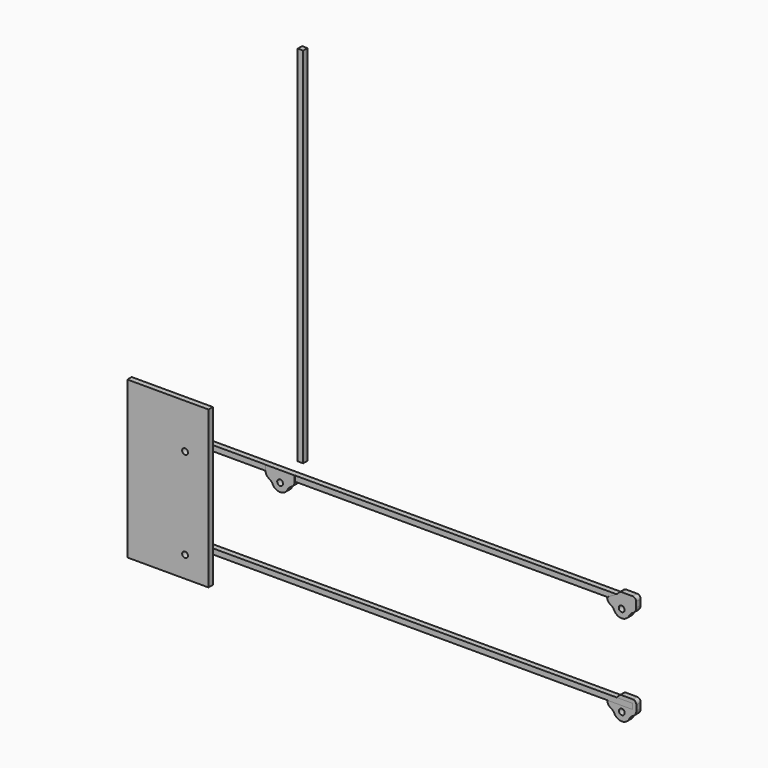
from build123d import *

# Parameters (mm, degrees)
F1_R      = 1.6
F2_DEPTH  = 3
F3_R      = 1.6
F4_DEPTH  = 3
F5_DEPTH  = 3
F6_DEPTH  = 250
F10_W     = 3
F10_H     = 3
F11_DEPTH = 200
F12_W     = 44.6838736534
F12_H     = 86.2456932664
F12_R     = 1.6
F13_DEPTH = 3
F14_R     = 1.6
F15_DEPTH = 0.1
F16_R     = 1.6
F17_DEPTH = 0.1


with BuildPart() as f2:
    # F1 (on Front) → F2 (new body)
    with BuildSketch(Plane.XZ):
        with BuildLine():
            ThreePointArc((-6.0881012729, 0), (-4.9561461906, -0.8267547634), (-4.1538737729, -1.9761914579))
            ThreePointArc((-4.1538737729, -1.9761914579), (-2.4565747794, -3.8891181974), (0, -4.6))
            ThreePointArc((0, -4.6), (2.4565747794, -3.8891181974), (4.1538737729, -1.9761914579))
            ThreePointArc((4.1538737729, -1.9761914579), (4.9561461906, -0.8267547634), (6.0881012729, 0))
            ThreePointArc((6.0881012729, 0), (7.4835895055, 1.2789181277), (8, 3.1))
            Line((8, 3.1), (0, 3.1))
            Line((0, 3.1), (-8, 3.1))
            ThreePointArc((-8, 3.1), (-7.4835895055, 1.2789181277), (-6.0881012729, 0))
        make_face()
        Circle(F1_R, mode=Mode.SUBTRACT)
    extrude(amount=F2_DEPTH)


with BuildPart() as f4:
    # F3 (on Front) → F4 (new body)
    with BuildSketch(Plane.XZ):
        with BuildLine():
            Line((6, 3.1), (-8, 3.1))
            ThreePointArc((-8, 3.1), (-7.4835895055, 1.2789181277), (-6.0881012729, 0))
            ThreePointArc((-6.0881012729, 0), (-4.9561461906, -0.8267547634), (-4.1538737729, -1.9761914579))
            ThreePointArc((-4.1538737729, -1.9761914579), (-2.4565747794, -3.8891181974), (0, -4.6))
            ThreePointArc((0, -4.6), (2.4565747794, -3.8891181974), (4.1538737729, -1.9761914579))
            ThreePointArc((4.1538737729, -1.9761914579), (4.9561461906, -0.8267547634), (6.0881012729, 0))
            ThreePointArc((6.0881012729, 0), (7.4835895055, 1.2789181277), (8, 3.1))
            Line((8, 3.1), (8, 6.1))
            ThreePointArc((8, 6.1), (7.4142135624, 7.5142135624), (6, 8.1))
            Line((6, 8.1), (0, 8.1))
            ThreePointArc((0, 8.1), (-0.7653668647, 7.947759065), (-1.4142135624, 7.5142135624))
            Line((-1.4142135624, 7.5142135624), (-2.8284271247, 6.1))
            Line((-2.8284271247, 6.1), (6, 6.1))
            Line((6, 6.1), (6, 3.1))
        make_face()
        Circle(F3_R, mode=Mode.SUBTRACT)
    extrude(amount=F4_DEPTH)


with BuildPart() as f5:
    # F3 (on Front) → F5 (new body, through all)
    with BuildSketch(Plane.XZ):
        with BuildLine():
            Line((-235.1715728753, 6.1), (-236.5857864376, 7.5142135624))
            ThreePointArc((-236.5857864376, 7.5142135624), (-237.2346331353, 7.947759065), (-238, 8.1))
            Line((-238, 8.1), (-244, 8.1))
            ThreePointArc((-244, 8.1), (-245.4142135624, 7.5142135624), (-246, 6.1))
            Line((-246, 6.1), (-246, 3.1))
            ThreePointArc((-246, 3.1), (-245.4835895055, 1.2789181277), (-244.0881012729, 0))
            ThreePointArc((-244.0881012729, 0), (-242.9561461906, -0.8267547634), (-242.1538737729, -1.9761914579))
            ThreePointArc((-242.1538737729, -1.9761914579), (-240.4565747794, -3.8891181974), (-238, -4.6))
            ThreePointArc((-238, -4.6), (-235.5434252206, -3.8891181974), (-233.8461262271, -1.9761914579))
            ThreePointArc((-233.8461262271, -1.9761914579), (-233.0438538094, -0.8267547634), (-231.9118987271, 0))
            ThreePointArc((-231.9118987271, 0), (-230.5164104945, 1.2789181277), (-230, 3.1))
            Line((-230, 3.1), (-244, 3.1))
            Line((-244, 3.1), (-244, 6.1))
            Line((-244, 6.1), (-235.1715728753, 6.1))
        make_face()
        with Locations((-238, 0)):
            Circle(F3_R, mode=Mode.SUBTRACT)
    extrude(amount=F5_DEPTH)


with BuildPart() as f6:
    # F6 (new): a face of the model
    f6_faces = [f4.part.faces().sort_by_distance(p)[0] for p in [
        (6, -1.5, 4.6),
    ]]
    extrude(f6_faces, amount=F6_DEPTH)


with BuildPart() as f7_1:
    # F7: copy of F4
    add(f4.part.moved(Location((0, 0, -50))))


with BuildPart() as f7_2:
    # F7: copy of F5
    add(f5.part.moved(Location((0, 0, -50))))


with BuildPart() as f8_1:
    # F8: copy of F6
    add(f6.part.moved(Location((0, 0, -50))))


with BuildPart() as f2_1:
    # F9: moved
    add(f2.part.moved(Location((-188, 0, 0))))


with BuildPart() as f11:
    # F10 (on face) → F11 (new body)
    with BuildSketch(Plane.XY.offset(6.1)):
        with Locations((-185.6912545952, 9.5001426525)):
            Rectangle(F10_W, F10_H)
    extrude(amount=F11_DEPTH)


with BuildPart() as f13:
    # F12 (on face) → F13 (new body)
    with BuildSketch(Plane.XZ.offset(3)):
        with Locations((-247.4499642849, -18.5489989817)):
            Rectangle(F12_W, F12_H)
        with Locations((-238, -50)):
            Circle(F12_R, mode=Mode.SUBTRACT)
        with Locations((-238, 0)):
            Circle(F12_R, mode=Mode.SUBTRACT)
    extrude(amount=F13_DEPTH)


with BuildPart() as f15:
    # F14 (on face) → F15 (new body)
    with BuildSketch(Plane.XZ.offset(3)):
        with BuildLine():
            ThreePointArc((8, 6.1), (7.4142135624, 7.5142135624), (6, 8.1))
            Line((6, 8.1), (0, 8.1))
            ThreePointArc((0, 8.1), (-0.7653668647, 7.947759065), (-1.4142135624, 7.5142135624))
            Line((-1.4142135624, 7.5142135624), (-2.8284271247, 6.1))
            Line((-2.8284271247, 6.1), (-8, 3.1))
            ThreePointArc((-8, 3.1), (-7.4835895055, 1.2789181277), (-6.0881012729, 0))
            ThreePointArc((-6.0881012729, 0), (-4.9561461906, -0.8267547634), (-4.1538737729, -1.9761914579))
            ThreePointArc((-4.1538737729, -1.9761914579), (0, -4.6), (4.1538737729, -1.9761914579))
            ThreePointArc((4.1538737729, -1.9761914579), (4.9561461906, -0.8267547634), (6.0881012729, 0))
            ThreePointArc((6.0881012729, 0), (7.4835895055, 1.2789181277), (8, 3.1))
            Line((8, 3.1), (8, 6.1))
        make_face()
        Circle(F14_R, mode=Mode.SUBTRACT)
    extrude(amount=F15_DEPTH)


with BuildPart() as f17:
    # F16 (on face) → F17 (new body)
    with BuildSketch(Plane.XZ.offset(3)):
        with BuildLine():
            ThreePointArc((-192.1538737729, -1.9761914579), (-188, -4.6), (-183.8461262271, -1.9761914579))
            ThreePointArc((-183.8461262271, -1.9761914579), (-183.0438538094, -0.8267547634), (-181.9118987271, 0))
            ThreePointArc((-181.9118987271, 0), (-180.5164104945, 1.2789181277), (-180, 3.1))
            Line((-180, 3.1), (-180, 6.1))
            Line((-180, 6.1), (-196, 6.1))
            Line((-196, 6.1), (-196, 3.1))
            ThreePointArc((-196, 3.1), (-195.4835895055, 1.2789181277), (-194.0881012729, 0))
            ThreePointArc((-194.0881012729, 0), (-192.9561461906, -0.8267547634), (-192.1538737729, -1.9761914579))
        make_face()
        with Locations((-188, 0)):
            Circle(F16_R, mode=Mode.SUBTRACT)
    extrude(amount=F17_DEPTH)


solid = Compound([f4.part, f5.part, f6.part, f7_1.part, f7_2.part, f8_1.part, f2_1.part, f11.part, f13.part, f15.part, f17.part])
